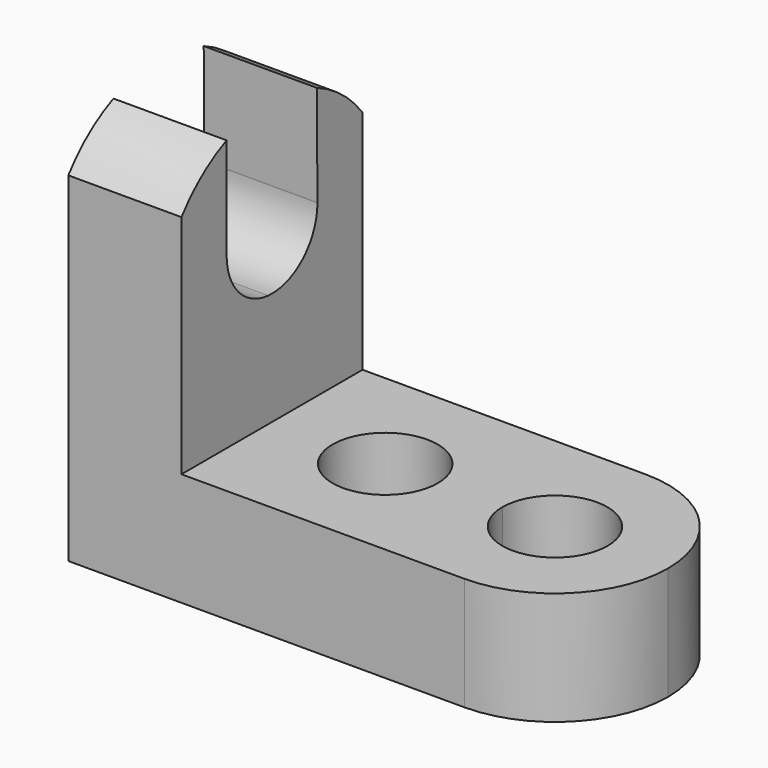
from build123d import *

# Parameters (mm, degrees)
F1_DEPTH = 25.4
F3_DEPTH = 25.4
F5_DEPTH = 25.4
F7_DEPTH = 25.4
F9_DEPTH = 25.4


with BuildPart() as f1:
    # F0 (on Front) → F1 (new body)
    with BuildSketch(Plane.XZ):
        Polygon((0, 44.45), (0, 0), (57.15, 0), (57.15, 12.7), (12.7, 12.7), (12.7, 44.45), align=None)
    extrude(amount=F1_DEPTH)

    # F2 (on face) → F3 (cut)
    with BuildSketch(Plane.XY.offset(12.7)):
        with BuildLine():
            ThreePointArc((44.45, 0), (53.4302561211, -3.7197438789), (57.15, -12.7))
            Line((57.15, -12.7), (57.15, 0))
            Line((57.15, 0), (44.45, 0))
        make_face()
        with BuildLine():
            ThreePointArc((57.15, -12.7), (53.4302561211, -21.6802561211), (44.45, -25.4))
            Line((44.45, -25.4), (57.15, -25.4))
            Line((57.15, -25.4), (57.15, -12.7))
        make_face()
    extrude(amount=-F3_DEPTH, mode=Mode.SUBTRACT)

    # F4 (on face) → F5 (cut)
    with BuildSketch(Plane.YZ.offset(12.7)):
        with BuildLine():
            ThreePointArc((-25.4, 38.1), (-19.7995158286, 42.7740316571), (-12.7, 44.45))
            Line((-12.7, 44.45), (-25.4, 44.45))
            Line((-25.4, 44.45), (-25.4, 38.1))
        make_face()
        with BuildLine():
            ThreePointArc((-12.7, 44.45), (-5.6004841714, 42.7740316571), (0, 38.1))
            Line((0, 38.1), (0, 44.45))
            Line((0, 44.45), (-12.7, 44.45))
        make_face()
    extrude(amount=-F5_DEPTH, mode=Mode.SUBTRACT)

    # F6 (on face) → F7 (cut)
    with BuildSketch(Plane.YZ.offset(12.7)):
        with BuildLine():
            Line((-12.7, 38.1200404451), (-12.7, 44.45))
            ThreePointArc((-12.7, 44.45), (-15.9541203879, 44.112899649), (-19.0700404451, 43.1159150238))
            Line((-19.0700404451, 43.1159150238), (-19.0700404451, 31.75))
            ThreePointArc((-19.0700404451, 31.75), (-17.2042987951, 36.2542987951), (-12.7, 38.1200404451))
        make_face()
        with BuildLine():
            ThreePointArc((-6.4029134361, 43.1476567861), (-9.4848251587, 44.1210051377), (-12.7, 44.45))
            Line((-12.7, 44.45), (-12.7, 38.1200404451))
            ThreePointArc((-12.7, 38.1200404451), (-8.2101655193, 36.2687168099), (-6.33009051, 31.7908455718))
            Line((-6.33009051, 31.7908455718), (-6.4029134361, 43.1476567861))
        make_face()
        with BuildLine():
            ThreePointArc((-6.33009051, 31.7908455718), (-8.2101655193, 36.2687168099), (-12.7, 38.1200404451))
            Line((-12.7, 38.1200404451), (-12.7, 31.75))
            Line((-12.7, 31.75), (-13.2048913466, 25.4))
            ThreePointArc((-13.2048913466, 25.4), (-8.3778918932, 27.0705986724), (-6.3299595549, 31.75))
            ThreePointArc((-6.3299595549, 31.75), (-6.3299922938, 31.7704228909), (-6.33009051, 31.7908455718))
        make_face()
        with BuildLine():
            Line((-12.7, 31.75), (-12.7, 38.1200404451))
            ThreePointArc((-12.7, 38.1200404451), (-17.2042987951, 36.2542987951), (-19.0700404451, 31.75))
            Line((-19.0700404451, 31.75), (-12.7, 31.75))
        make_face()
        with BuildLine():
            Line((-13.2048913466, 25.4), (-12.7, 31.75))
            Line((-12.7, 31.75), (-19.0700404451, 31.75))
            ThreePointArc((-19.0700404451, 31.75), (-17.3794013276, 27.4278918932), (-13.2048913466, 25.4))
        make_face()
    extrude(amount=-F7_DEPTH, mode=Mode.SUBTRACT)

    # F8 (on face) → F9 (cut)
    with BuildSketch(Plane.XY.offset(12.7)):
        with BuildLine():
            Line((25.4, -12.7), (31.2978833258, -12.7))
            ThreePointArc((31.2978833258, -12.7), (21.2295667057, -8.5295667057), (25.4, -18.5978833258))
            Line((25.4, -18.5978833258), (25.4, -12.7))
        make_face()
        with BuildLine():
            ThreePointArc((25.4, -18.5978833258), (29.5704332943, -16.8704332943), (31.2978833258, -12.7))
            Line((31.2978833258, -12.7), (25.4, -12.7))
            Line((25.4, -12.7), (25.4, -18.5978833258))
        make_face()
        with BuildLine():
            ThreePointArc((44.45, -18.5956514407), (48.6188551132, -16.8688551132), (50.3456514407, -12.7))
            Line((50.3456514407, -12.7), (44.45, -12.7))
            Line((44.45, -12.7), (44.45, -18.5956514407))
        make_face()
        with BuildLine():
            ThreePointArc((50.3456514407, -12.7), (44.45, -6.8043485593), (38.5543485593, -12.7))
            Line((38.5543485593, -12.7), (44.45, -12.7))
            Line((44.45, -12.7), (50.3456514407, -12.7))
        make_face()
        with BuildLine():
            Line((44.45, -12.7), (38.5543485593, -12.7))
            ThreePointArc((38.5543485593, -12.7), (40.2811448868, -16.8688551132), (44.45, -18.5956514407))
            Line((44.45, -18.5956514407), (44.45, -12.7))
        make_face()
    extrude(amount=-F9_DEPTH, mode=Mode.SUBTRACT)


solid = f1.part
